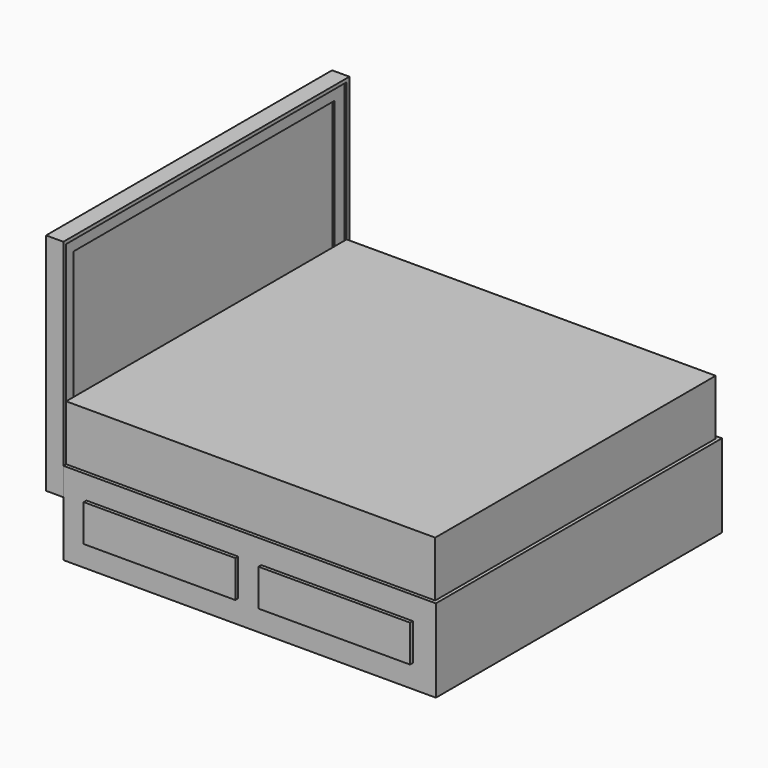
from build123d import *

# Parameters (mm, degrees)
F0_W          = 1930.4
F0_H          = 1219.2
F1_DEPTH      = 19.05
F4_DEPTH      = 82.55
F4_DEPTH_BACK = 12.7
F5_W          = 1949.45
F5_H          = 1228.725
F6_DEPTH      = 12.7
F8_DEPTH      = 12.7
F9_W          = 2032
F9_H          = 1930.4
F10_DEPTH     = 457.2
F13_DEPTH     = 457.2
F14_W         = 784.225
F14_H         = 152.4
F15_DEPTH     = 2540
F16_W         = 835.025
F16_H         = 203.2
F17_DEPTH     = 19.05


with BuildPart() as f1:
    # F0 (on Right) → F1 (new body)
    with BuildSketch(Plane.YZ):
        with Locations((0, 609.6)):
            Rectangle(F0_W, F0_H)
    extrude(amount=-F1_DEPTH)


with BuildPart() as f4:
    # F3 (on offset) → F4 (new body, two sides)
    with BuildSketch(Plane.YZ.offset(12.7)) as f4_sk:
        Polygon((-984.25, 0), (-965.2, 0), (-965.2, 1219.2), (-984.25, 1238.25), align=None)
        Polygon((-984.25, 1238.25), (-965.2, 1219.2), (965.2, 1219.2), (984.25, 1238.25), align=None)
        Polygon((984.25, 1238.25), (965.2, 1219.2), (965.2, 0), (984.25, 0), align=None)
    extrude(amount=-F4_DEPTH)
    extrude(f4_sk.sketch, amount=F4_DEPTH_BACK)

    # F5 (on face) → F6 (cut)
    with BuildSketch(Plane.YZ):
        with Locations((0, 614.3625)):
            Rectangle(F5_W, F5_H)
    extrude(amount=F6_DEPTH, mode=Mode.SUBTRACT)


with BuildPart() as f8:
    # F7 (on face) → F8 (new body)
    with BuildSketch(Plane.YZ):
        Polygon((-974.725, 1228.725), (-974.725, 0), (-898.525, 0), (-898.525, 1152.525), (898.525, 1152.525), (898.525, 0), (974.725, 0), (974.725, 1228.725), align=None)
    extrude(amount=F8_DEPTH)


with BuildPart() as f10:
    # F9 (on Top) → F10 (new body)
    with BuildSketch(Plane.XY):
        with Locations((1041.4, 0)):
            Rectangle(F9_W, F9_H)
    extrude(amount=F10_DEPTH)


with BuildPart() as f13:
    # F12 (on offset) → F13 (new body)
    with BuildSketch(Plane.XY.offset(152.4)):
        Polygon((25.4, -965.2), (25.4, -984.25), (2076.45, -984.25), (2076.45, 984.25), (25.4, 984.25), (25.4, 965.2), (2057.4, 965.2), (2057.4, -965.2), align=None)
    extrude(amount=-F13_DEPTH)

    # F14 (on face) → F15 (cut)
    with BuildSketch(Plane.XZ.offset(984.25)):
        with Locations((569.9125, -76.2)):
            Rectangle(F14_W, F14_H)
        with Locations((1531.9375, -76.2)):
            Rectangle(F14_W, F14_H)
    extrude(amount=-F15_DEPTH, mode=Mode.SUBTRACT)


with BuildPart() as f17:
    # F16 (on face) → F17 (new body)
    with BuildSketch(Plane.XZ.offset(984.25)):
        with Locations((569.9125, -76.2)):
            Rectangle(F16_W, F16_H)
    extrude(amount=F17_DEPTH)


with BuildPart() as f17b:
    # F16 (on face) → F17, piece 2 (new body)
    with BuildSketch(Plane.XZ.offset(984.25)):
        with Locations((1531.9375, -76.2)):
            Rectangle(F16_W, F16_H)
    extrude(amount=F17_DEPTH)


with BuildPart() as f18_1:
    # F18: instance of F17
    add(f17.part.mirror(Plane.XZ))


with BuildPart() as f18_2:
    # F18: instance of F17b
    add(f17b.part.mirror(Plane.XZ))


solid = Compound([f1.part, f4.part, f8.part, f10.part, f13.part, f17.part, f17b.part, f18_1.part, f18_2.part])
